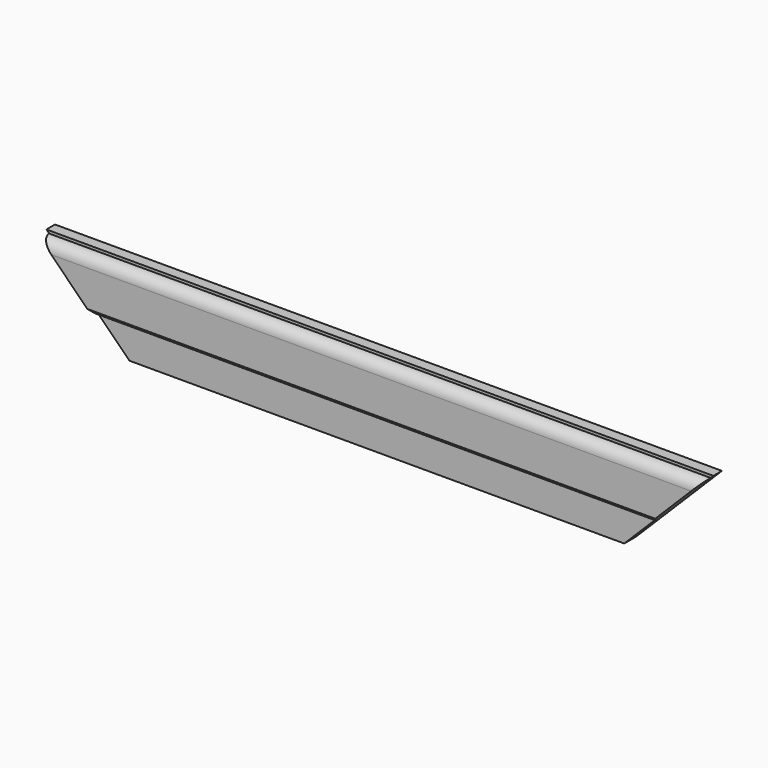
from build123d import *

# Parameters (mm, degrees)
F1_DEPTH = 787.4
F3_DEPTH = 25.4
F4_SIZE  = 5.08


with BuildPart() as f1:
    # F0 (on Right) → F1 (new body)
    with BuildSketch(Plane.YZ):
        with BuildLine():
            Line((-17.145, 0), (0, 0))
            Line((0, 0), (0, 101.6))
            Line((0, 101.6), (-12.7, 101.6))
            Line((-12.7, 101.6), (-12.7, 98.425))
            ThreePointArc((-12.7, 98.425), (-21.680256, 94.705256), (-25.4, 85.725))
            Line((-25.4, 85.725), (-25.4, 38.1))
            Line((-25.4, 38.1), (-17.145, 38.1))
            Line((-17.145, 38.1), (-17.145, 0))
        make_face()
    extrude(amount=F1_DEPTH)

    # F2 (on face) → F3 (cut)
    with BuildSketch(Plane(origin=(0, 0, 0), x_dir=(-1, 0, 0), z_dir=(0, 1, 0))):
        Polygon((-685.8, 0), (-787.4, 101.6), (-787.4, 0), align=None)
        Polygon((0, 0), (0, 101.6), (-101.6, 0), align=None)
    extrude(amount=-F3_DEPTH, mode=Mode.SUBTRACT)

    # F4
    f4_edges = [f1.edges().sort_by_distance(p)[0] for p in [
        (393.7, -25.4, 38.1),
    ]]
    chamfer(f4_edges, length=F4_SIZE)


solid = f1.part
